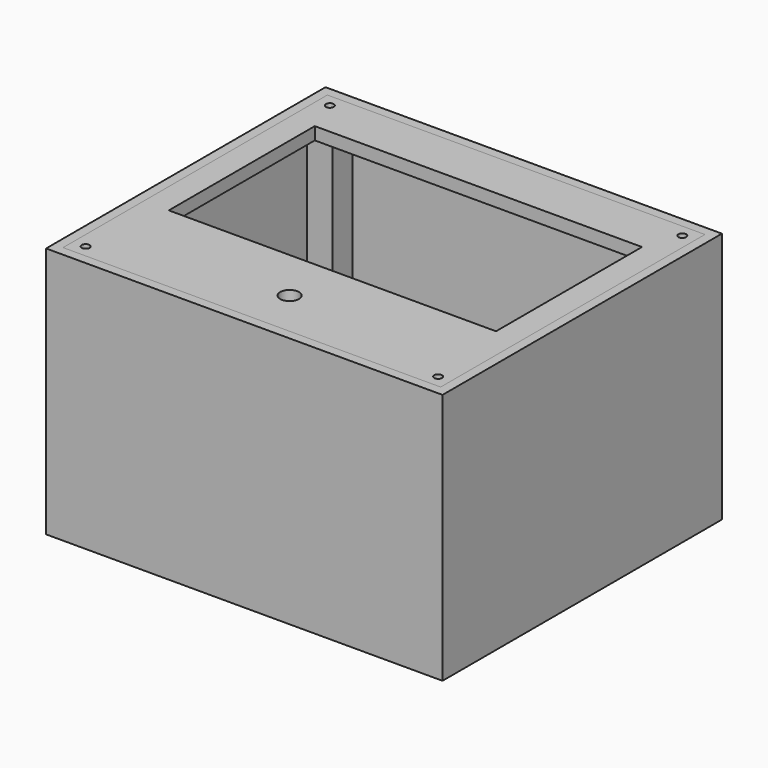
from build123d import *

# Parameters (mm, degrees)
F0_W     = 126
F0_H     = 111
F0_R     = 3
F0_W_2   = 104
F0_H_2   = 58
F0_W_3   = 8
F0_H_3   = 8
F0_R_2   = 1.25
F1_DEPTH = 3
F2_DEPTH = 80
F3_DEPTH = 76
F4_DEPTH = 4


with BuildPart() as f1:
    # F0 (on Top) → F1 (new body)
    with BuildSketch(Plane.XY):
        Rectangle(F0_W, F0_H)
        Polygon((60, -44.5), (60, -52.5), (52, -52.5), (-52, -52.5), (-60, -52.5), (-60, -44.5), (-60, 44.5), (-60, 52.5), (-52, 52.5), (52, 52.5), (60, 52.5), (60, 44.5), align=None, mode=Mode.SUBTRACT)
        Polygon((-52, -52.5), (52, -52.5), (52, -44.5), (60, -44.5), (60, 44.5), (52, 44.5), (52, 52.5), (-52, 52.5), (-52, 44.5), (-60, 44.5), (-60, -44.5), (-52, -44.5), align=None)
        with Locations((0, -37.5)):
            Circle(F0_R, mode=Mode.SUBTRACT)
        with Locations((0, 8.5)):
            Rectangle(F0_W_2, F0_H_2, mode=Mode.SUBTRACT)
        with Locations((0, 8.5)):
            Rectangle(F0_W_2, F0_H_2)
        with Locations((-56, -48.5)):
            Rectangle(F0_W_3, F0_H_3)
        with Locations((-56, -48.5)):
            Circle(F0_R_2, mode=Mode.SUBTRACT)
        with Locations((56, 48.5)):
            Rectangle(F0_W_3, F0_H_3)
        with Locations((56, 48.5)):
            Circle(F0_R_2, mode=Mode.SUBTRACT)
        with Locations((-56, 48.5)):
            Rectangle(F0_W_3, F0_H_3)
        with Locations((-56, 48.5)):
            Circle(F0_R_2, mode=Mode.SUBTRACT)
        with Locations((56, -48.5)):
            Rectangle(F0_W_3, F0_H_3)
        with Locations((56, -48.5)):
            Circle(F0_R_2, mode=Mode.SUBTRACT)
        with Locations((0, -37.5)):
            Circle(F0_R)
        with Locations((-56, -48.5)):
            Circle(F0_R_2)
        with Locations((56, 48.5)):
            Circle(F0_R_2)
        with Locations((-56, 48.5)):
            Circle(F0_R_2)
        with Locations((56, -48.5)):
            Circle(F0_R_2)
    extrude(amount=F1_DEPTH)

    # F0 (on Top) → F2 (join)
    with BuildSketch(Plane.XY):
        Rectangle(F0_W, F0_H)
        Polygon((60, -44.5), (60, -52.5), (52, -52.5), (-52, -52.5), (-60, -52.5), (-60, -44.5), (-60, 44.5), (-60, 52.5), (-52, 52.5), (52, 52.5), (60, 52.5), (60, 44.5), align=None, mode=Mode.SUBTRACT)
    extrude(amount=F2_DEPTH)

    # F0 (on Top) → F3 (join)
    with BuildSketch(Plane.XY):
        with Locations((56, -48.5)):
            Rectangle(F0_W_3, F0_H_3)
        with Locations((56, -48.5)):
            Circle(F0_R_2, mode=Mode.SUBTRACT)
        with Locations((56, 48.5)):
            Rectangle(F0_W_3, F0_H_3)
        with Locations((56, 48.5)):
            Circle(F0_R_2, mode=Mode.SUBTRACT)
        with Locations((-56, -48.5)):
            Rectangle(F0_W_3, F0_H_3)
        with Locations((-56, -48.5)):
            Circle(F0_R_2, mode=Mode.SUBTRACT)
        with Locations((-56, 48.5)):
            Rectangle(F0_W_3, F0_H_3)
        with Locations((-56, 48.5)):
            Circle(F0_R_2, mode=Mode.SUBTRACT)
    extrude(amount=F3_DEPTH)


with BuildPart() as f4:
    # F0 (on Top) → F4 (new body)
    with BuildSketch(Plane.XY):
        Polygon((-52, -52.5), (52, -52.5), (52, -44.5), (60, -44.5), (60, 44.5), (52, 44.5), (52, 52.5), (-52, 52.5), (-52, 44.5), (-60, 44.5), (-60, -44.5), (-52, -44.5), align=None)
        with Locations((0, -37.5)):
            Circle(F0_R, mode=Mode.SUBTRACT)
        with Locations((0, 8.5)):
            Rectangle(F0_W_2, F0_H_2, mode=Mode.SUBTRACT)
        with Locations((-56, -48.5)):
            Rectangle(F0_W_3, F0_H_3)
        with Locations((-56, -48.5)):
            Circle(F0_R_2, mode=Mode.SUBTRACT)
        with Locations((-56, 48.5)):
            Rectangle(F0_W_3, F0_H_3)
        with Locations((-56, 48.5)):
            Circle(F0_R_2, mode=Mode.SUBTRACT)
        with Locations((56, 48.5)):
            Rectangle(F0_W_3, F0_H_3)
        with Locations((56, 48.5)):
            Circle(F0_R_2, mode=Mode.SUBTRACT)
        with Locations((56, -48.5)):
            Rectangle(F0_W_3, F0_H_3)
        with Locations((56, -48.5)):
            Circle(F0_R_2, mode=Mode.SUBTRACT)
    extrude(amount=F4_DEPTH)


with BuildPart() as f4_1:
    # F5: moved
    add(f4.part.moved(Location((0, 0, 76))))


solid = Compound([f1.part, f4_1.part])
